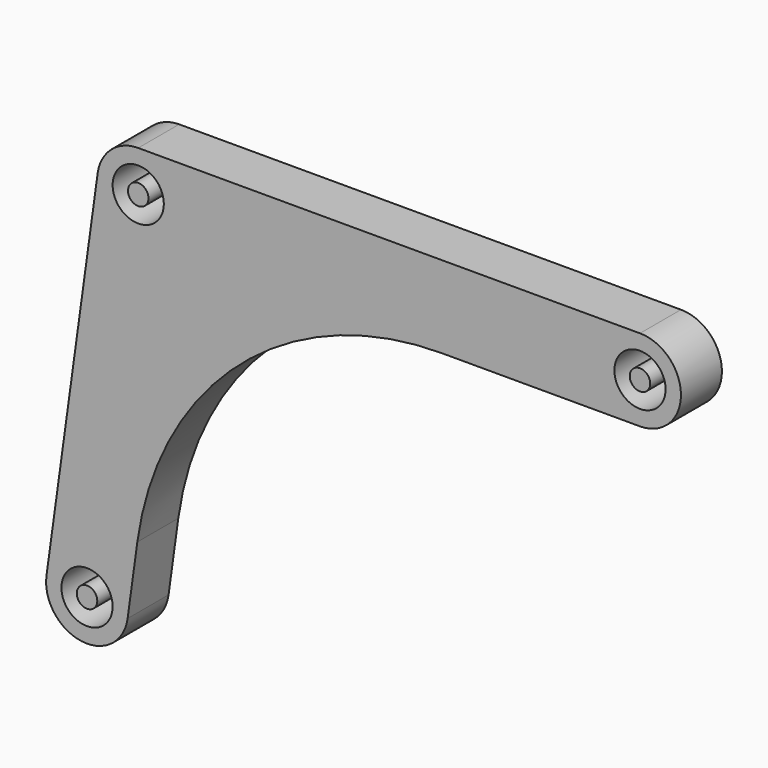
from build123d import *

# Parameters (mm, degrees)
F0_R     = 2.5
F0_R_2   = 1
F1_DEPTH = 5


with BuildPart() as f1:
    # F0 (on Front) → F1 (new body)
    with BuildSketch(Plane.XZ):
        with BuildLine():
            Line((49, 4), (0, 4))
            ThreePointArc((0, 4), (-2.628042, 3.015526), (-3.962464, 0.546698))
            Line((-3.962464, 0.546698), (-8.962464, -35.693302))
            ThreePointArc((-8.962464, -35.693302), (-5.546698, -40.202464), (-1.037536, -36.786698))
            Line((-1.037536, -36.786698), (-0.087352, -29.899768))
            ThreePointArc((-0.087352, -29.899768), (9.920813, -11.383557), (29.631128, -4))
            Line((29.631128, -4), (49, -4))
            ThreePointArc((49, -4), (53, 0), (49, 4))
        make_face()
        with Locations((-5, -36.24)):
            Circle(F0_R, mode=Mode.SUBTRACT)
        Circle(F0_R, mode=Mode.SUBTRACT)
        with Locations((49, 0)):
            Circle(F0_R, mode=Mode.SUBTRACT)
        Circle(F0_R_2)
        with Locations((-5, -36.24)):
            Circle(F0_R_2)
        with Locations((49, 0)):
            Circle(F0_R_2)
    extrude(amount=F1_DEPTH)


solid = f1.part
